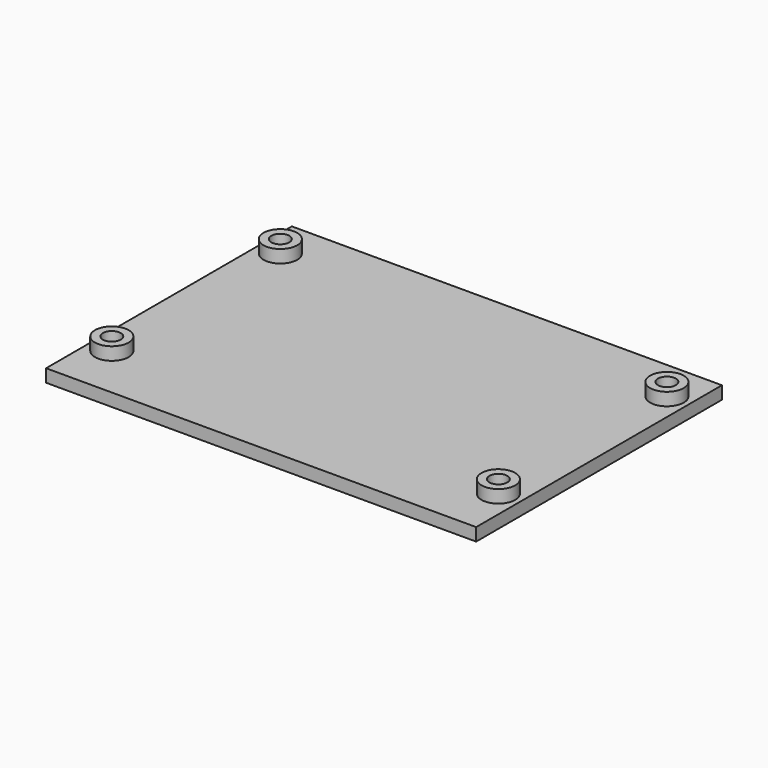
from build123d import *

# Parameters (mm, degrees)
F0_W     = 168
F0_H     = 120
F0_R     = 3.5
F1_DEPTH = 5
F2_R     = 6.5786613614
F2_R_2   = 3.5
F3_DEPTH = 5


with BuildPart() as f1:
    # F0 (on Top) → F1 (new body)
    with BuildSketch(Plane.XY):
        Rectangle(F0_W, F0_H)
        with Locations((-75.5, -38.5304466963)):
            Circle(F0_R, mode=Mode.SUBTRACT)
        with Locations((75.5, -38.5304466963)):
            Circle(F0_R, mode=Mode.SUBTRACT)
        with Locations((-75.5, 43.7695533037)):
            Circle(F0_R, mode=Mode.SUBTRACT)
        with Locations((75.5, 43.7695533037)):
            Circle(F0_R, mode=Mode.SUBTRACT)
    extrude(amount=F1_DEPTH)

    # F2 (on face) → F3 (join)
    with BuildSketch(Plane.XY.offset(5)):
        with Locations((-75.5, -38.5304466963)):
            Circle(F2_R)
        with Locations((-75.5, -38.5304466963)):
            Circle(F2_R_2, mode=Mode.SUBTRACT)
        with Locations((-75.5, 43.7695533037)):
            Circle(F2_R)
        with Locations((-75.5, 43.7695533037)):
            Circle(F2_R_2, mode=Mode.SUBTRACT)
        with Locations((75.5, 43.7695533037)):
            Circle(F2_R)
        with Locations((75.5, 43.7695533037)):
            Circle(F2_R_2, mode=Mode.SUBTRACT)
        with Locations((75.5, -38.5304466963)):
            Circle(F2_R)
        with Locations((75.5, -38.5304466963)):
            Circle(F2_R_2, mode=Mode.SUBTRACT)
    extrude(amount=F3_DEPTH)


solid = f1.part
